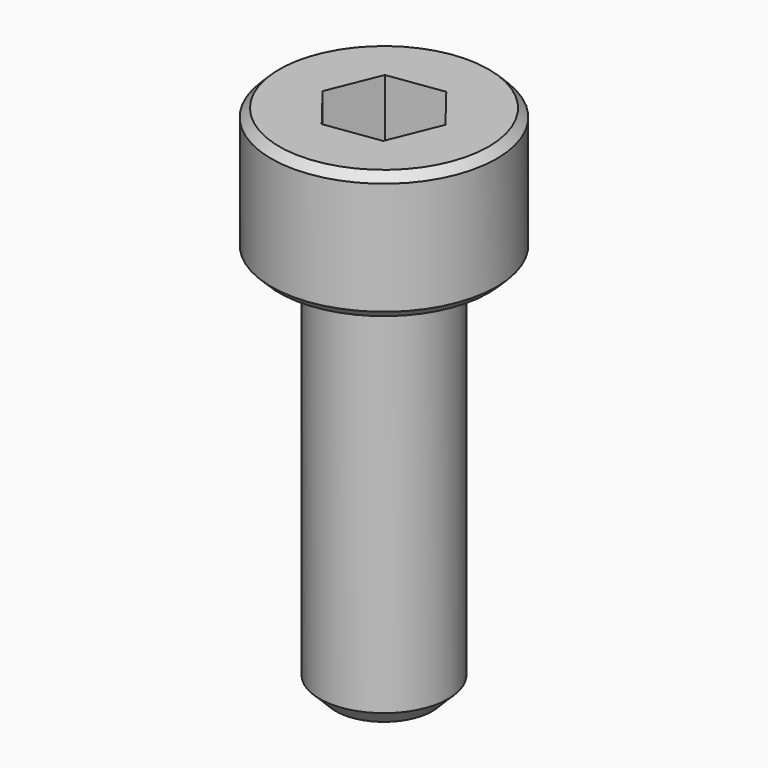
from build123d import *

# Parameters (mm, degrees)
F0_R     = 3.5
F1_DEPTH = 4
F3_DEPTH = 2
F4_R     = 2
F5_DEPTH = 12
F6_SIZE  = 0.5
F7_SIZE  = 0.25


with BuildPart() as f1:
    # F0 (on Top) → F1 (new body)
    with BuildSketch(Plane.XY):
        Circle(F0_R)
    extrude(amount=F1_DEPTH)

    # F2 (on face) → F3 (cut)
    with BuildSketch(Plane.XY.offset(4)):
        Polygon((1.0656559782, -1.3654220359), (1.7153181591, 0.2401741309), (0.6496621809, 1.6055961668), (-1.0656559782, 1.3654220359), (-1.7153181591, -0.2401741309), (-0.6496621809, -1.6055961668), align=None)
    extrude(amount=-F3_DEPTH, mode=Mode.SUBTRACT)

    # F4 (on face) → F5 (join)
    with BuildSketch(Plane(origin=(0, 0, 0), x_dir=(1, 0, 0), z_dir=(0, 0, -1))):
        Circle(F4_R)
    extrude(amount=F5_DEPTH)

    # F6
    f6_edges = [f1.edges().sort_by_distance(p)[0] for p in [
        (-2, 0, -12),
    ]]
    chamfer(f6_edges, length=F6_SIZE)

    # F7
    f7_edges = [f1.edges().sort_by_distance(p)[0] for p in [
        (-3.5, 0, 0),
        (-3.5, 0, 4),
    ]]
    chamfer(f7_edges, length=F7_SIZE)


solid = f1.part
